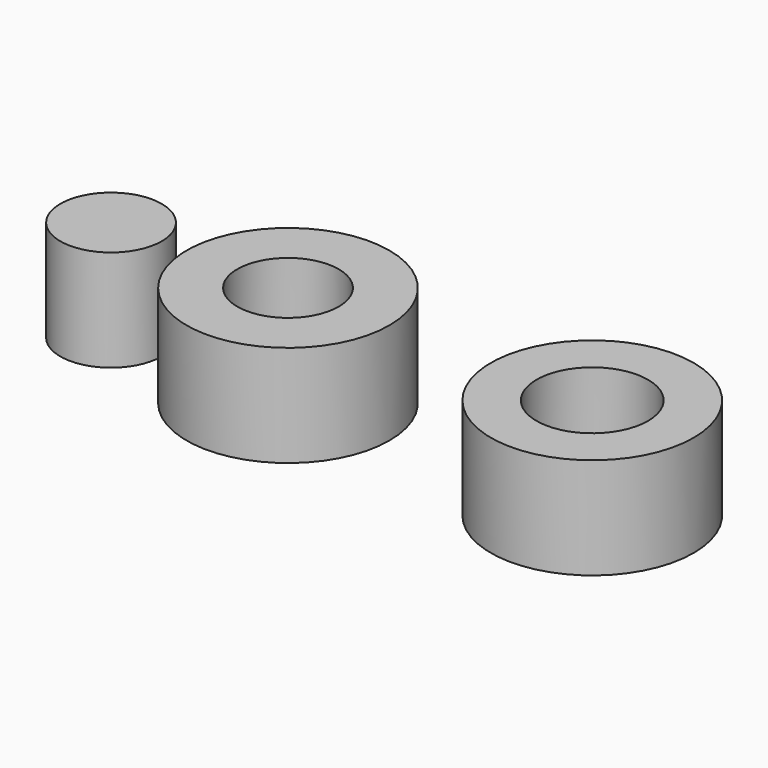
from build123d import *

# Parameters (mm, degrees)
F1_R     = 5
F2_DEPTH = 10
F3_R     = 10
F3_R_2   = 5
F4_DEPTH = 10
F5_R     = 10
F5_R_2   = 5.5
F6_DEPTH = 10


with BuildPart() as f2:
    # F1 (on Top) → F2 (new body)
    with BuildSketch(Plane.XY):
        Circle(F1_R)
    extrude(amount=F2_DEPTH)


with BuildPart() as f4:
    # F3 (on Top) → F4 (new body)
    with BuildSketch(Plane.XY):
        with Locations((17.4480897933, 0)):
            Circle(F3_R)
        with Locations((17.4480897933, 0)):
            Circle(F3_R_2, mode=Mode.SUBTRACT)
    extrude(amount=F4_DEPTH)


with BuildPart() as f6:
    # F5 (on Top) → F6 (new body)
    with BuildSketch(Plane.XY):
        with Locations((47.4480897933, 0)):
            Circle(F5_R)
        with Locations((47.4480897933, 0)):
            Circle(F5_R_2, mode=Mode.SUBTRACT)
    extrude(amount=F6_DEPTH)


solid = Compound([f2.part, f4.part, f6.part])
